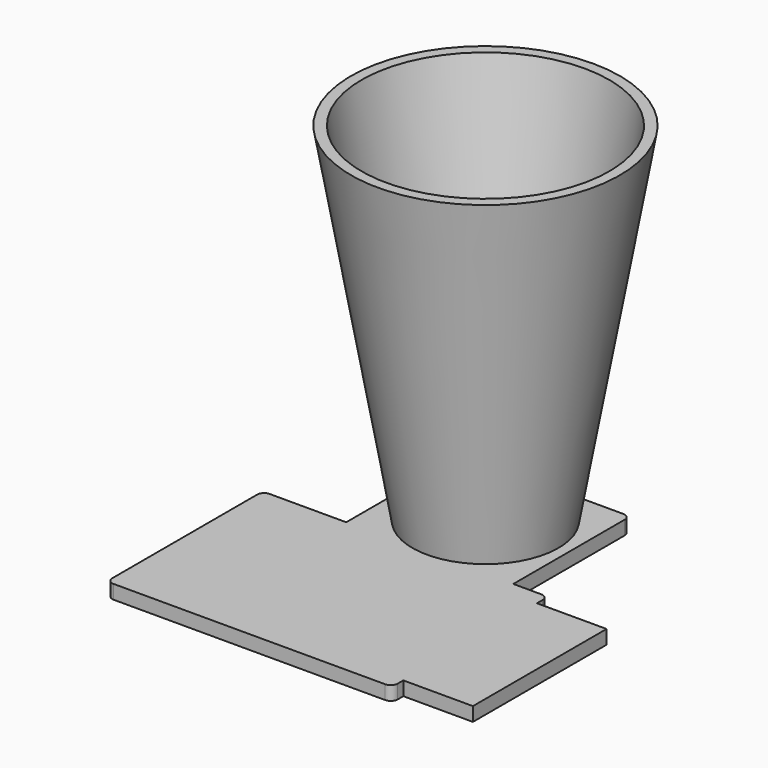
from build123d import *

# Parameters (mm, degrees)
F1_DEPTH = 2
F2_R     = 1
F3_R     = 9
F4_DEPTH = 2
F8_W     = 24
F8_H     = 2
F9_DEPTH = 10


with BuildPart() as f1:
    # F0 (on Top) → F1 (new body)
    with BuildSketch(Plane.XY):
        Polygon((-12, 8.716256), (-24, 8.716256), (-24, -19.283744), (17, -19.283744), (17, 8.716256), (12, 8.716256), (12, 29.716256), (-12, 29.716256), align=None)
    extrude(amount=F1_DEPTH)

    # F2
    f2_edges = [f1.edges().sort_by_distance(p)[0] for p in [
        (-24, 8.716256, 1),
        (-12, 29.716256, 1),
        (12, 29.716256, 1),
        (17, 8.716256, 1),
        (17, -19.283744, 1),
        (-24, -19.283744, 1),
    ]]
    fillet(f2_edges, radius=F2_R)

    # F3 (on face) → F4 (cut, through all)
    with BuildSketch(Plane.XY.offset(2)):
        with Locations((0, 18.716256)):
            Circle(F3_R)
    extrude(amount=-F4_DEPTH, mode=Mode.SUBTRACT)

    # F5 (on Right) → F7 (revolve)
    with BuildSketch(Plane.YZ):
        Polygon((36.509466, 52), (27.693117, 2), (29.216256, 2), (38.032605, 52), align=None)
    revolve(axis=Axis((0, 18.716256, 10.515208), (0, 0, 1)))

    # F8 (on face) → F9 (join)
    with BuildSketch(Plane.YZ.offset(17)):
        with Locations((-5.283744, 1)):
            Rectangle(F8_W, F8_H)
    extrude(amount=F9_DEPTH)


solid = f1.part
